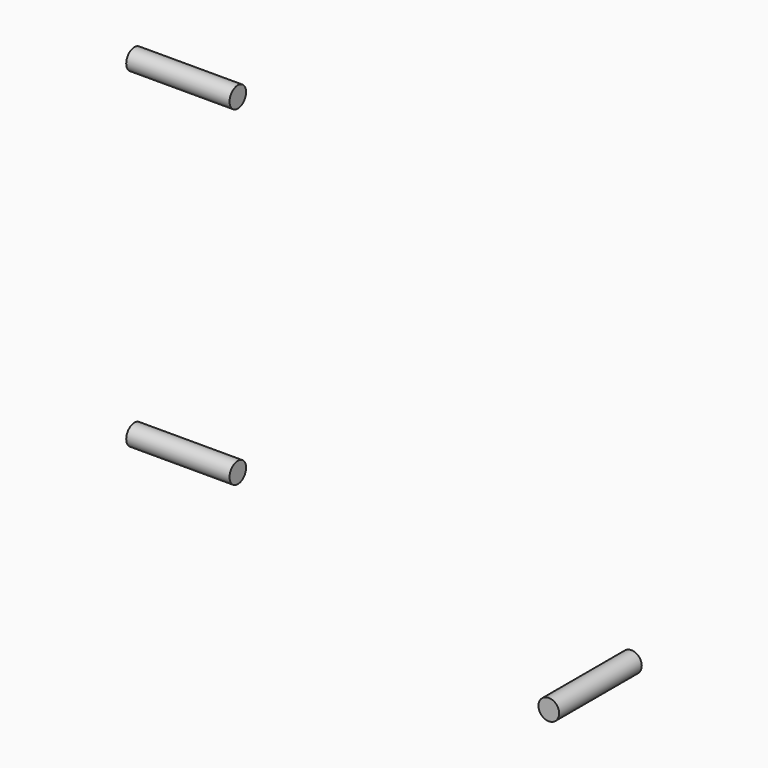
from build123d import *

# Parameters (mm, degrees)
CYLINDER018_R     = 1
CYLINDER018_DEPTH = 10
CYLINDER019_R     = 1
CYLINDER019_DEPTH = 10
CYLINDER020_R     = 1
CYLINDER020_DEPTH = 10


with BuildPart() as cylinder018:
    # Cylinder018 → Cylinder018 (new body)
    with BuildSketch(Plane(origin=(0, 10, 6), x_dir=(0, 0, 1), z_dir=(-1, 0, 0))):
        Circle(CYLINDER018_R)
    extrude(amount=CYLINDER018_DEPTH)


with BuildPart() as cylinder019:
    # Cylinder019 → Cylinder019 (new body)
    with BuildSketch(Plane(origin=(0, 10, 38), x_dir=(0, 0, 1), z_dir=(-1, 0, 0))):
        Circle(CYLINDER019_R)
    extrude(amount=CYLINDER019_DEPTH)


with BuildPart() as screw_pos:
    # Cylinder020 → Cylinder020 (new body)
    with BuildSketch(Plane(origin=(40.5, 7, 4.25), x_dir=(1, 0, 0), z_dir=(0, -1, 0))):
        Circle(CYLINDER020_R)
    extrude(amount=CYLINDER020_DEPTH)

    # Fusion009002: union Cylinder018, Cylinder019
    add(cylinder018.part)
    add(cylinder019.part)


solid = screw_pos.part
